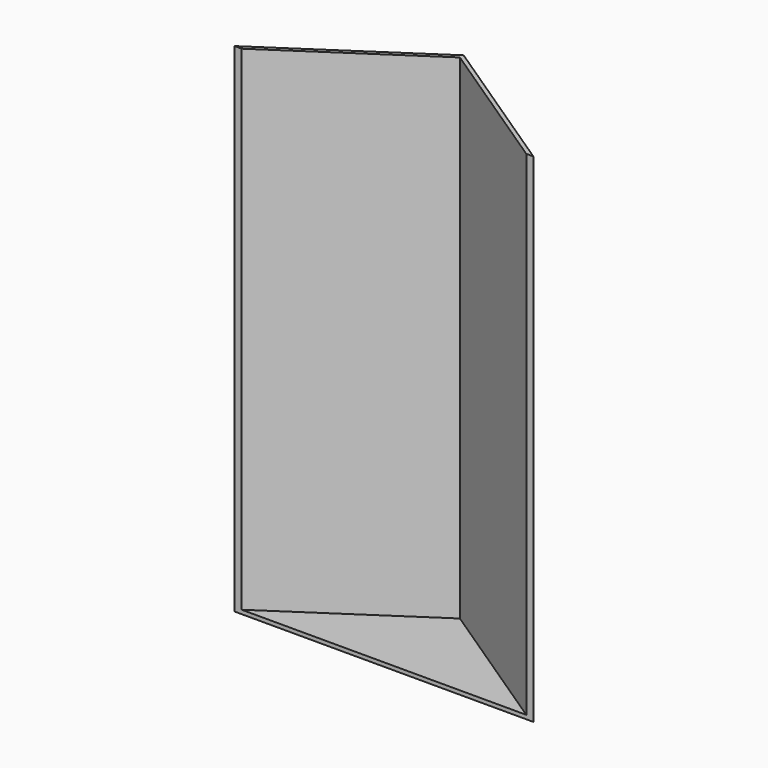
from build123d import *

# Parameters (mm, degrees)
F1_DEPTH = 127
F2_T     = -1


with BuildPart() as f1:
    # F0 (on Top) → F1 (new body)
    with BuildSketch(Plane.XY):
        Polygon((38.1, -12.7), (0, 12.7), (-38.1, -12.7), align=None)
    extrude(amount=F1_DEPTH)

    # F2
    f2_openings = [f1.faces().sort_by_distance(p)[0] for p in [
        (0, -4.233333, 127),
        (0, -12.7, 63.5),
    ]]
    offset(amount=F2_T, openings=f2_openings)


solid = f1.part
